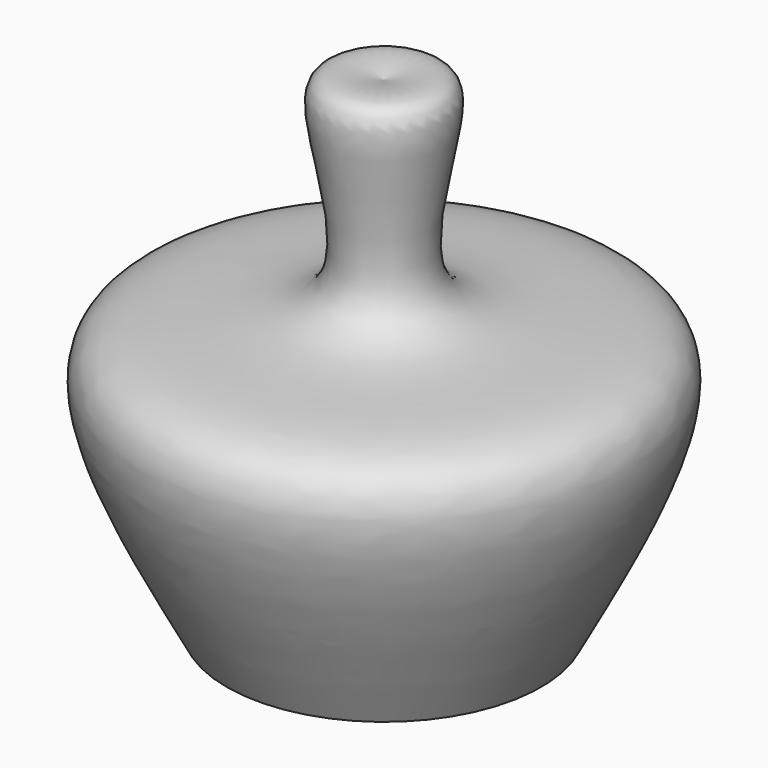
from build123d import *


with BuildPart() as f2:
    # F0 (on Front) → F2 (revolve)
    with BuildSketch(Plane.XZ):
        with BuildLine():
            add(Edge.make_bspline(
                [(-37.6517660916, -61.6547651589), (-51.9310330872, -34.9440267327), (-78.0001732388, 13.8208001874), (5.4451390351, -4.662008315), (-23.6022818495, 59.323031645), (-6.3818492606, 55.5300724059), (0, 54.1244111955)],
                knots=[0, 0, 0, 0, 0.321909547, 0.5876985913, 0.8472021288, 1, 1, 1, 1], degree=3))
            add(Edge.make_bspline(
                [(-37.6517660916, -61.6547651589), (-25.1011773944, -62.0469699303), (-12.5505886972, -62.4391747018), (0, -62.8313794732)],
                knots=[0, 0, 0, 0, 37.6701461513, 37.6701461513, 37.6701461513, 37.6701461513], degree=3))
            Line((0, -62.8313794732), (0, 54.1244111955))
        make_face()
    revolve(axis=Axis((0, 0, -4.3534841388), (0, 0, -1)))


solid = f2.part
